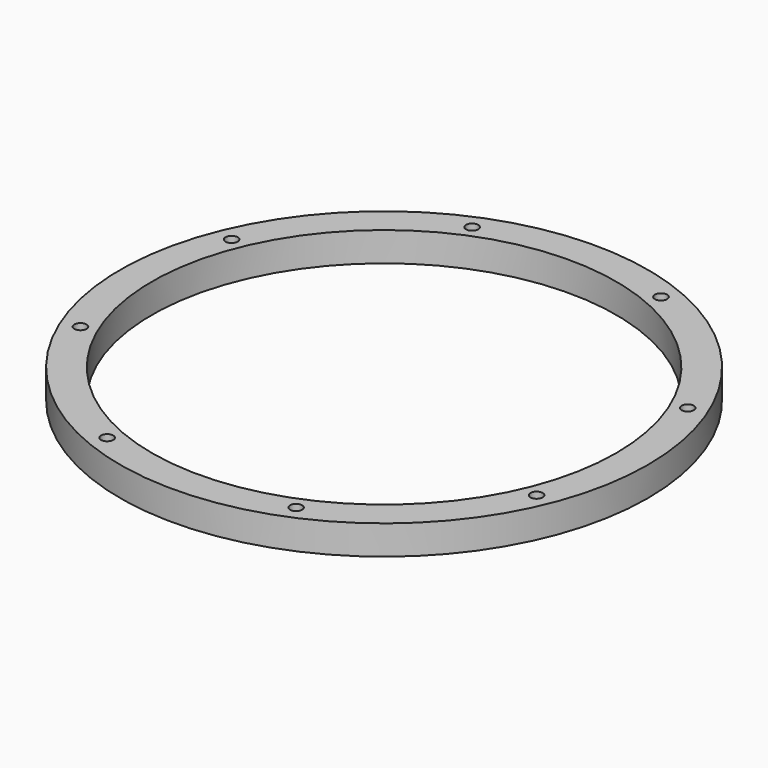
from build123d import *

# Parameters (mm, degrees)
SKETCH001_R   = 108
SKETCH001_R_2 = 95
SKETCH001_R_3 = 2.5
PAD_DEPTH     = 12


with BuildPart() as part:
    # Sketch001 → Pad (new body)
    with BuildSketch(Plane(origin=(0, 0, 0), x_dir=(1, 0, 0), z_dir=(0, 0, -1))):
        Circle(SKETCH001_R)
        Circle(SKETCH001_R_2, mode=Mode.SUBTRACT)
        with Locations((38.651027, 93.311833)):
            Circle(SKETCH001_R_3, mode=Mode.SUBTRACT)
        with Locations((93.311833, 38.651027)):
            Circle(SKETCH001_R_3, mode=Mode.SUBTRACT)
        with Locations((93.311833, -38.651027)):
            Circle(SKETCH001_R_3, mode=Mode.SUBTRACT)
        with Locations((38.651027, -93.311833)):
            Circle(SKETCH001_R_3, mode=Mode.SUBTRACT)
        with Locations((-38.651027, 93.311833)):
            Circle(SKETCH001_R_3, mode=Mode.SUBTRACT)
        with Locations((-93.311833, 38.651027)):
            Circle(SKETCH001_R_3, mode=Mode.SUBTRACT)
        with Locations((-93.311833, -38.651027)):
            Circle(SKETCH001_R_3, mode=Mode.SUBTRACT)
        with Locations((-38.651027, -93.311833)):
            Circle(SKETCH001_R_3, mode=Mode.SUBTRACT)
    extrude(amount=PAD_DEPTH)


solid = part.part
